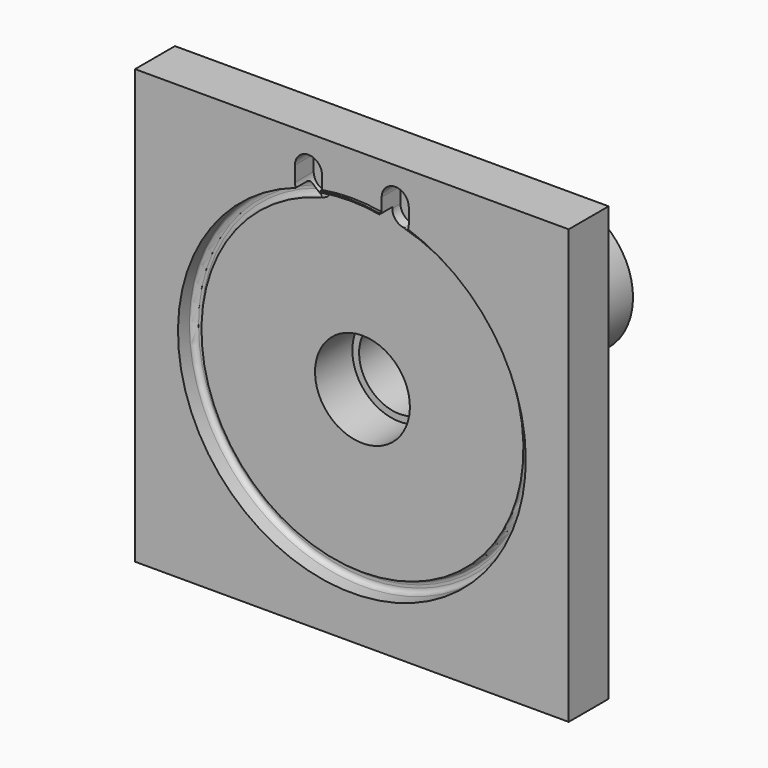
from build123d import *

# Parameters (mm, degrees)
F0_W      = 50.8
F0_H      = 50.8
F0_R      = 20.3708
F1_DEPTH  = 5.842
F7_ANGLE  = 330
F9_DEPTH  = 2.7432
F11_DEPTH = 1.8796


with BuildPart() as f1:
    # F0 (on Front) → F1 (new body)
    with BuildSketch(Plane.XZ):
        Rectangle(F0_W, F0_H)
        Circle(F0_R, mode=Mode.SUBTRACT)
    extrude(amount=-F1_DEPTH)

    # F2 (on Right) → F3 (revolve)
    with BuildSketch(Plane.YZ):
        Polygon((7.0104, 4.7625), (31.242, 4.7625), (31.242, 7.9375), (5.842, 7.9375), (5.842, 20.3708), (1.5494, 20.3708), (1.5494, 5.55625), (7.0104, 5.55625), align=None)
    revolve(axis=Axis((0, 6.768076, 0), (0, 1, 0)))

    # F6 (on face) → F7 (revolve, cut)
    with BuildSketch(Plane(origin=(0, 0, 0), x_dir=(0, -1, 0), z_dir=(-0.965926, 0, -0.258819))):
        with BuildLine():
            Line((-1.5494, 20.3708), (-1.6637, 20.3708))
            ThreePointArc((-1.6637, 20.3708), (-2.085772, 20.195972), (-2.2606, 19.7739))
            Line((-2.2606, 19.7739), (-2.2606, 19.4564))
            ThreePointArc((-2.2606, 19.4564), (-2.085772, 19.034328), (-1.6637, 18.8595))
            Line((-1.6637, 18.8595), (-1.5494, 18.8595))
            Line((-1.5494, 18.8595), (-1.5494, 20.3708))
        make_face()
    revolve(axis=Axis((0, -7.841465, 0), (0, -1, 0)), revolution_arc=F7_ANGLE, mode=Mode.SUBTRACT)

    # F8 (on face) → F9 (cut)
    with BuildSketch(Plane.XZ):
        with BuildLine():
            Line((-3.4925, 19.812), (-3.4925, 21.59))
            ThreePointArc((-3.4925, 21.59), (-5.08, 23.1775), (-6.6675, 21.59))
            Line((-6.6675, 21.59), (-6.6675, 19.812))
            ThreePointArc((-6.6675, 19.812), (-5.08, 18.2245), (-3.4925, 19.812))
        make_face()
        with BuildLine():
            Line((3.4925, 21.59), (3.4925, 19.812))
            ThreePointArc((3.4925, 19.812), (5.08, 18.2245), (6.6675, 19.812))
            Line((6.6675, 19.812), (6.6675, 21.59))
            ThreePointArc((6.6675, 21.59), (5.08, 23.1775), (3.4925, 21.59))
        make_face()
    extrude(amount=-F9_DEPTH, mode=Mode.SUBTRACT)

    # F10 (on face) → F11 (join)
    with BuildSketch(Plane.XZ.offset(-1.5494)):
        with BuildLine():
            Line((3.4925, 19.940258), (3.4925, 20.069179))
            ThreePointArc((3.4925, 20.069179), (0, 20.3708), (-3.4925, 20.069179))
            Line((-3.4925, 20.069179), (-3.4925, 19.940258))
            ThreePointArc((-3.4925, 19.940258), (0, 20.2438), (3.4925, 19.940258))
        make_face()
    extrude(amount=F11_DEPTH)


solid = f1.part
